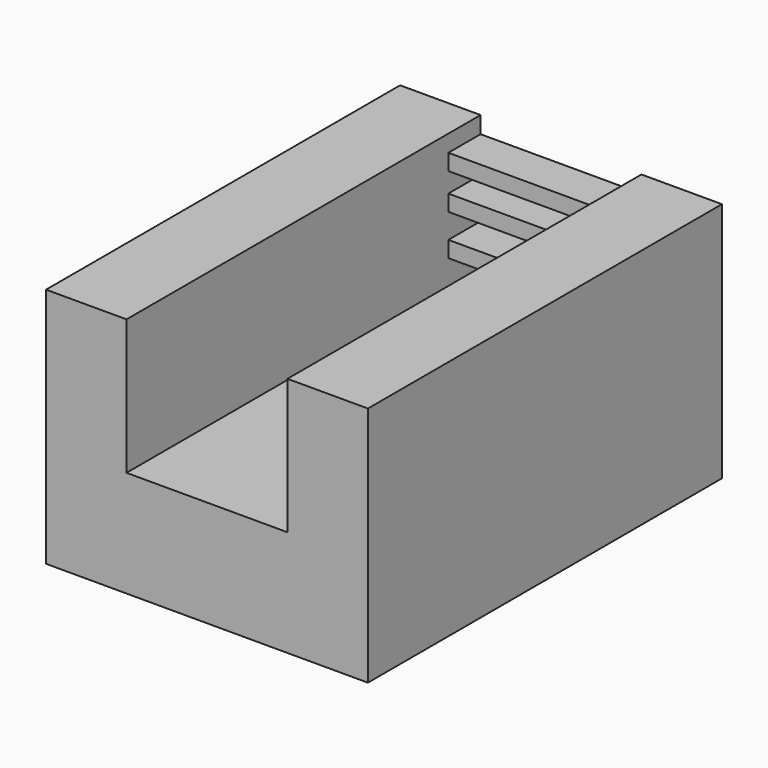
from build123d import *

# Parameters (mm, degrees)
F1_DEPTH = 50
F2_DEPTH = 5
F3_W     = 20
F3_H     = 2
F4_DEPTH = 5


with BuildPart() as f1:
    # F0 (on Front) → F1 (new body)
    with BuildSketch(Plane.XZ):
        Polygon((0, 30), (0, 0), (40, 0), (40, 30), (30, 30), (30, 13.209878), (10, 13.209878), (10, 30), align=None)
    extrude(amount=F1_DEPTH)

    # F1_face (on face) → F2 (join)
    with BuildSketch(Plane(origin=(20, -50, 12.43351), x_dir=(1, 0, 0), z_dir=(0, -1, 0))):
        Polygon((10, 0.776368), (-10, 0.776368), (-10, 17.56649), (-20, 17.56649), (-20, -12.43351), (20, -12.43351), (20, 17.56649), (10, 17.56649), align=None)
    extrude(amount=F2_DEPTH)

    # F3 (on Front) → F4 (join)
    with BuildSketch(Plane.XZ):
        with Locations((19.894101, 17.3732)):
            Rectangle(F3_W, F3_H)
        with Locations((19.894101, 22.438831)):
            Rectangle(F3_W, F3_H)
        with Locations((19.894101, 26.903864)):
            Rectangle(F3_W, F3_H)
    extrude(amount=F4_DEPTH)


solid = f1.part
